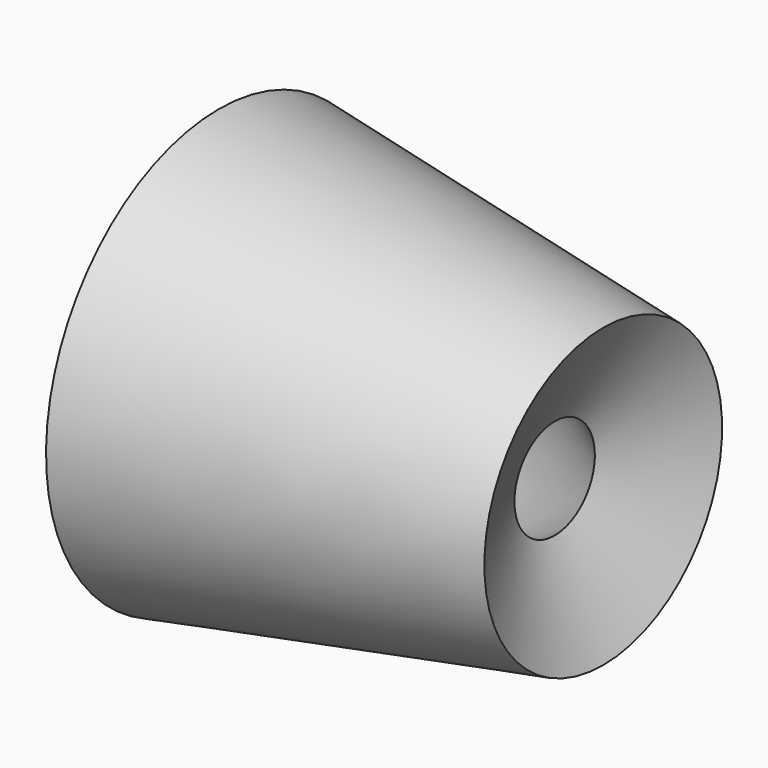
from build123d import *


with BuildPart() as f1:
    # F0 (on Front) → F1 (revolve)
    with BuildSketch(Plane.XZ):
        with BuildLine():
            ThreePointArc((0, 40.342309), (42.915669, 31.860355), (82.033865, 12.278095))
            Line((82.033865, 12.278095), (93.907185, 36.294587))
            Line((93.907185, 36.294587), (0, 52.75533))
            Line((0, 52.75533), (0, 40.342309))
        make_face()
    revolve(axis=Axis((22.9371, 0, 0), (1, 0, 0)))


solid = f1.part
